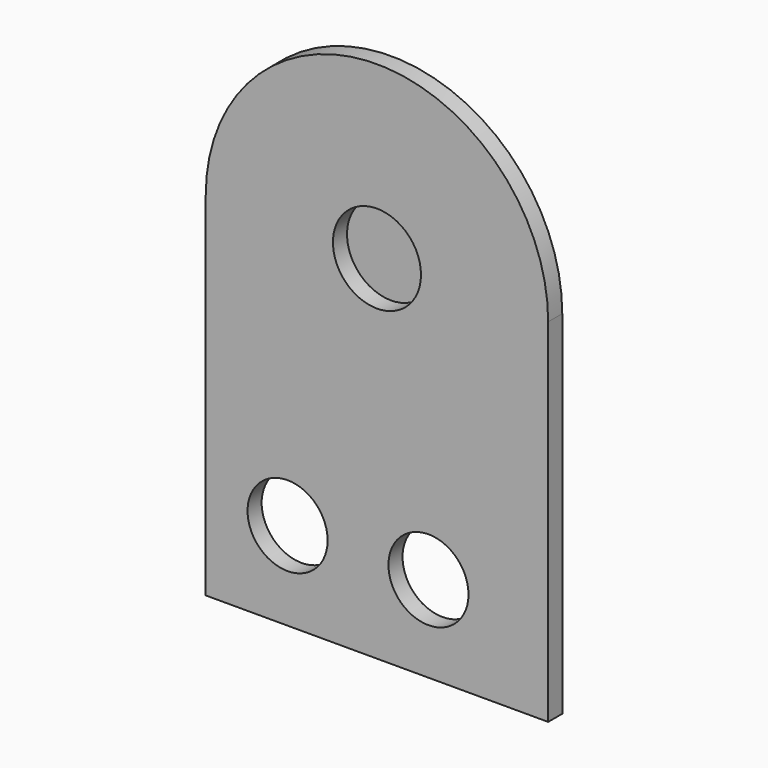
from build123d import *

# Parameters (mm, degrees)
F0_R     = 57.736203
F0_R_2   = 63.5
F1_DEPTH = 25.4
F2_R     = 63.5
F3_DEPTH = 127


with BuildPart() as f1:
    # F0 (on Front) → F1 (new body)
    with BuildSketch(Plane.XZ):
        with BuildLine():
            Line((-246.930426, 254), (-246.930426, -254))
            Line((-246.930426, -254), (246.930426, -254))
            Line((246.930426, -254), (246.930426, 254))
            ThreePointArc((246.930426, 254), (0, 500.930426), (-246.930426, 254))
        make_face()
        with Locations((-128.889695, -127)):
            Circle(F0_R, mode=Mode.SUBTRACT)
        with Locations((74.293553, -129.609211)):
            Circle(F0_R, mode=Mode.SUBTRACT)
        with Locations((0, 254)):
            Circle(F0_R_2, mode=Mode.SUBTRACT)
    extrude(amount=F1_DEPTH)

    # F2 (on Front) → F3 (join)
    with BuildSketch(Plane.XZ):
        with Locations((0, 254)):
            Circle(F2_R)
    extrude(amount=-F3_DEPTH)


solid = f1.part
